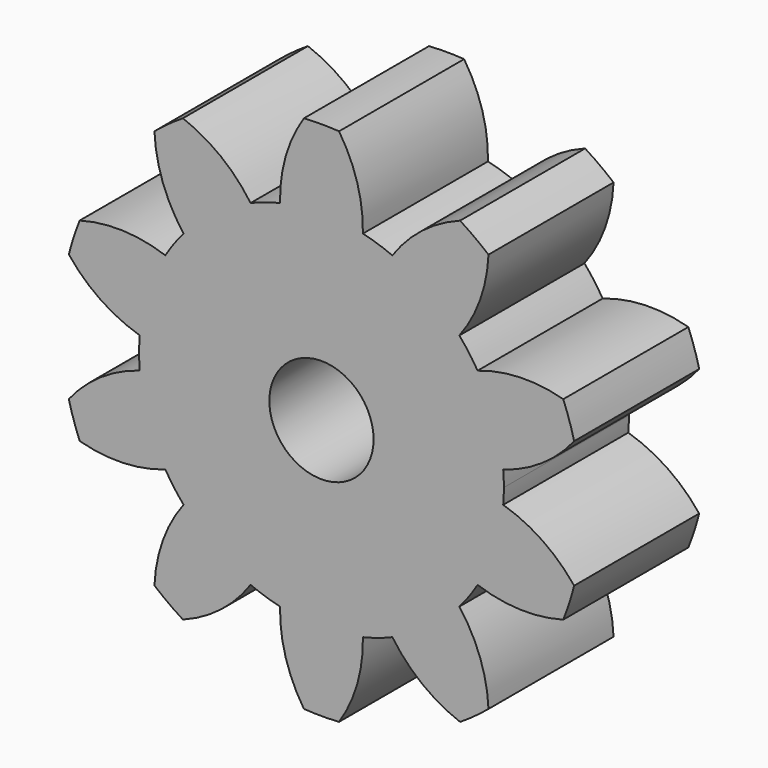
from build123d import *

# Parameters (mm, degrees)
F1_DEPTH = 3
F2_R     = 1
F3_DEPTH = 3.001


with BuildPart() as f1:
    # F0 (on Front) → F1 (new body)
    with BuildSketch(Plane.XZ):
        with BuildLine():
            ThreePointArc((3.48734, -0.297421), (3.496834, -0.148845), (3.5, 0))
            ThreePointArc((3.5, 0), (3.496834, 0.148845), (3.48734, 0.297421))
            ThreePointArc((3.48734, 0.297421), (3.328698, 1.081559), (2.996137, 1.809189))
            ThreePointArc((2.996137, 1.809189), (2.831559, 2.057248), (2.646498, 2.290426))
            ThreePointArc((2.646498, 2.290426), (2.057248, 2.831559), (1.360511, 3.224749))
            ThreePointArc((1.360511, 3.224749), (1.081559, 3.328698), (0.794783, 3.408566))
            ThreePointArc((0.794783, 3.408566), (0, 3.5), (-0.794783, 3.408566))
            ThreePointArc((-0.794783, 3.408566), (-1.081559, 3.328698), (-1.360511, 3.224749))
            ThreePointArc((-1.360511, 3.224749), (-2.057248, 2.831559), (-2.646498, 2.290426))
            ThreePointArc((-2.646498, 2.290426), (-2.831559, 2.057248), (-2.996137, 1.809189))
            ThreePointArc((-2.996137, 1.809189), (-3.328698, 1.081559), (-3.48734, 0.297421))
            ThreePointArc((-3.48734, 0.297421), (-3.5, 0), (-3.48734, -0.297421))
            ThreePointArc((-3.48734, -0.297421), (-3.328698, -1.081559), (-2.996137, -1.809189))
            ThreePointArc((-2.996137, -1.809189), (-2.831559, -2.057248), (-2.646498, -2.290426))
            ThreePointArc((-2.646498, -2.290426), (-2.057248, -2.831559), (-1.360511, -3.224749))
            ThreePointArc((-1.360511, -3.224749), (-1.081559, -3.328698), (-0.794783, -3.408566))
            ThreePointArc((-0.794783, -3.408566), (0, -3.5), (0.794783, -3.408566))
            ThreePointArc((0.794783, -3.408566), (1.081559, -3.328698), (1.360511, -3.224749))
            ThreePointArc((1.360511, -3.224749), (2.057248, -2.831559), (2.646498, -2.290426))
            ThreePointArc((2.646498, -2.290426), (2.831559, -2.057248), (2.996137, -1.809189))
            ThreePointArc((2.996137, -1.809189), (3.328698, -1.081559), (3.48734, -0.297421))
        make_face()
        with BuildLine():
            ThreePointArc((2.996137, 1.809189), (3.328698, 1.081559), (3.48734, 0.297421))
            ThreePointArc((3.48734, 0.297421), (4.238654, 0.654915), (4.848699, 1.220706))
            ThreePointArc((4.848699, 1.220706), (4.755283, 1.545085), (4.640192, 1.862422))
            ThreePointArc((4.640192, 1.862422), (3.814092, 1.961581), (2.996137, 1.809189))
        make_face()
        with BuildLine():
            ThreePointArc((4.848699, -1.220706), (4.238654, -0.654915), (3.48734, -0.297421))
            ThreePointArc((3.48734, -0.297421), (3.328698, -1.081559), (2.996137, -1.809189))
            ThreePointArc((2.996137, -1.809189), (3.814092, -1.961581), (4.640192, -1.862422))
            ThreePointArc((4.640192, -1.862422), (4.755283, -1.545085), (4.848699, -1.220706))
        make_face()
        with BuildLine():
            ThreePointArc((1.360511, 3.224749), (2.057248, 2.831559), (2.646498, 2.290426))
            ThreePointArc((2.646498, 2.290426), (3.044194, 3.021255), (3.205167, 3.837565))
            ThreePointArc((3.205167, 3.837565), (2.938926, 4.045085), (2.65929, 4.234167))
            ThreePointArc((2.65929, 4.234167), (1.932677, 3.82882), (1.360511, 3.224749))
        make_face()
        with BuildLine():
            ThreePointArc((3.205167, -3.837565), (3.044194, -3.021255), (2.646498, -2.290426))
            ThreePointArc((2.646498, -2.290426), (2.057248, -2.831559), (1.360511, -3.224749))
            ThreePointArc((1.360511, -3.224749), (1.932677, -3.82882), (2.65929, -4.234167))
            ThreePointArc((2.65929, -4.234167), (2.938926, -4.045085), (3.205167, -3.837565))
        make_face()
        with BuildLine():
            ThreePointArc((-0.794783, 3.408566), (0, 3.5), (0.794783, 3.408566))
            ThreePointArc((0.794783, 3.408566), (0.686955, 4.233579), (0.33737, 4.988605))
            ThreePointArc((0.33737, 4.988605), (0, 5), (-0.33737, 4.988605))
            ThreePointArc((-0.33737, 4.988605), (-0.686955, 4.233579), (-0.794783, 3.408566))
        make_face()
        with BuildLine():
            ThreePointArc((0.33737, -4.988605), (0.686955, -4.233579), (0.794783, -3.408566))
            ThreePointArc((0.794783, -3.408566), (0, -3.5), (-0.794783, -3.408566))
            ThreePointArc((-0.794783, -3.408566), (-0.686955, -4.233579), (-0.33737, -4.988605))
            ThreePointArc((-0.33737, -4.988605), (0, -5), (0.33737, -4.988605))
        make_face()
        with BuildLine():
            ThreePointArc((-2.646498, 2.290426), (-2.057248, 2.831559), (-1.360511, 3.224749))
            ThreePointArc((-1.360511, 3.224749), (-1.932677, 3.82882), (-2.65929, 4.234167))
            ThreePointArc((-2.65929, 4.234167), (-2.938926, 4.045085), (-3.205167, 3.837565))
            ThreePointArc((-3.205167, 3.837565), (-3.044194, 3.021255), (-2.646498, 2.290426))
        make_face()
        with BuildLine():
            ThreePointArc((-2.65929, -4.234167), (-1.932677, -3.82882), (-1.360511, -3.224749))
            ThreePointArc((-1.360511, -3.224749), (-2.057248, -2.831559), (-2.646498, -2.290426))
            ThreePointArc((-2.646498, -2.290426), (-3.044194, -3.021255), (-3.205167, -3.837565))
            ThreePointArc((-3.205167, -3.837565), (-2.938926, -4.045085), (-2.65929, -4.234167))
        make_face()
        with BuildLine():
            ThreePointArc((-3.48734, 0.297421), (-3.328698, 1.081559), (-2.996137, 1.809189))
            ThreePointArc((-2.996137, 1.809189), (-3.814092, 1.961581), (-4.640192, 1.862422))
            ThreePointArc((-4.640192, 1.862422), (-4.755283, 1.545085), (-4.848699, 1.220706))
            ThreePointArc((-4.848699, 1.220706), (-4.238654, 0.654915), (-3.48734, 0.297421))
        make_face()
        with BuildLine():
            ThreePointArc((-4.640192, -1.862422), (-3.814092, -1.961581), (-2.996137, -1.809189))
            ThreePointArc((-2.996137, -1.809189), (-3.328698, -1.081559), (-3.48734, -0.297421))
            ThreePointArc((-3.48734, -0.297421), (-4.238654, -0.654915), (-4.848699, -1.220706))
            ThreePointArc((-4.848699, -1.220706), (-4.755283, -1.545085), (-4.640192, -1.862422))
        make_face()
    extrude(amount=-F1_DEPTH)

    # F2 (on face) → F3 (cut, through all)
    with BuildSketch(Plane.XZ):
        Circle(F2_R)
    extrude(amount=-F3_DEPTH, mode=Mode.SUBTRACT)


solid = f1.part
